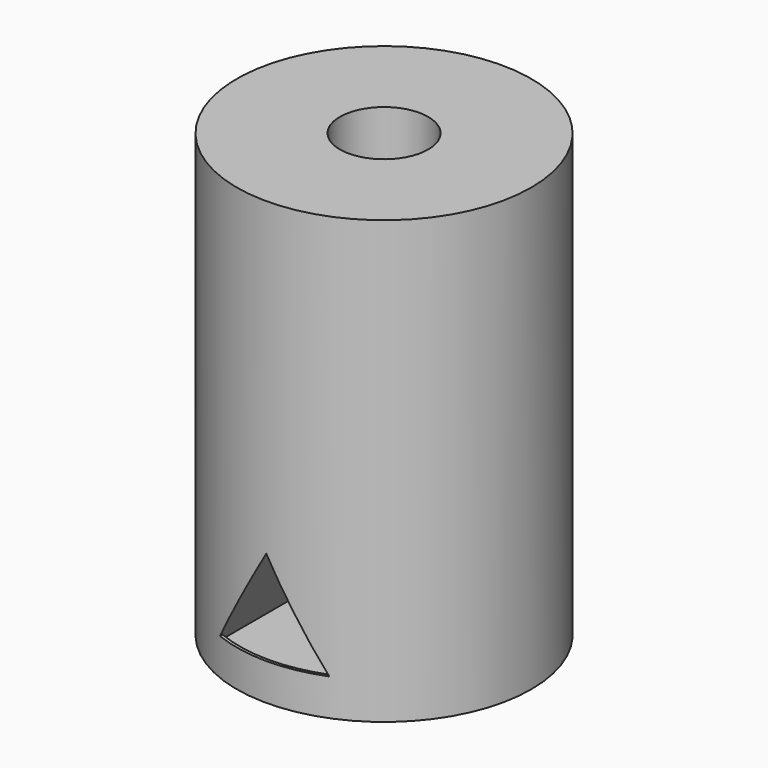
from build123d import *

# Parameters (mm, degrees)
F0_R          = 10
F0_R_2        = 9.8
F0_R_3        = 3
F2_DEPTH      = 2
F3_DEPTH      = 30
F4_DEPTH      = 25
F4_DEPTH_BACK = 25
F5_DEPTH      = 2.5


with BuildPart() as f2:
    # F0 (on Top) → F2 (new body)
    with BuildSketch(Plane.XY):
        Circle(F0_R)
        Circle(F0_R_2, mode=Mode.SUBTRACT)
        Circle(F0_R_2)
        Circle(F0_R_3, mode=Mode.SUBTRACT)
        Circle(F0_R_3)
    extrude(amount=F2_DEPTH)

    # F0 (on Top) → F3 (join)
    with BuildSketch(Plane.XY):
        Circle(F0_R)
        Circle(F0_R_2, mode=Mode.SUBTRACT)
        Circle(F0_R_2)
        Circle(F0_R_3, mode=Mode.SUBTRACT)
    extrude(amount=F3_DEPTH)

    # F1 (on Front) → F4 (cut, two sides)
    with BuildSketch(Plane.XZ) as f4_sk:
        Polygon((-4, 2), (0, 2), (4, 2), (0, 8.9282032303), align=None)
    extrude(amount=F4_DEPTH, mode=Mode.SUBTRACT)
    extrude(f4_sk.sketch, amount=-F4_DEPTH_BACK, mode=Mode.SUBTRACT)

    # F0 (on Top) → F5 (join)
    with BuildSketch(Plane.XY):
        Circle(F0_R)
        Circle(F0_R_2, mode=Mode.SUBTRACT)
    extrude(amount=F5_DEPTH)


solid = f2.part
